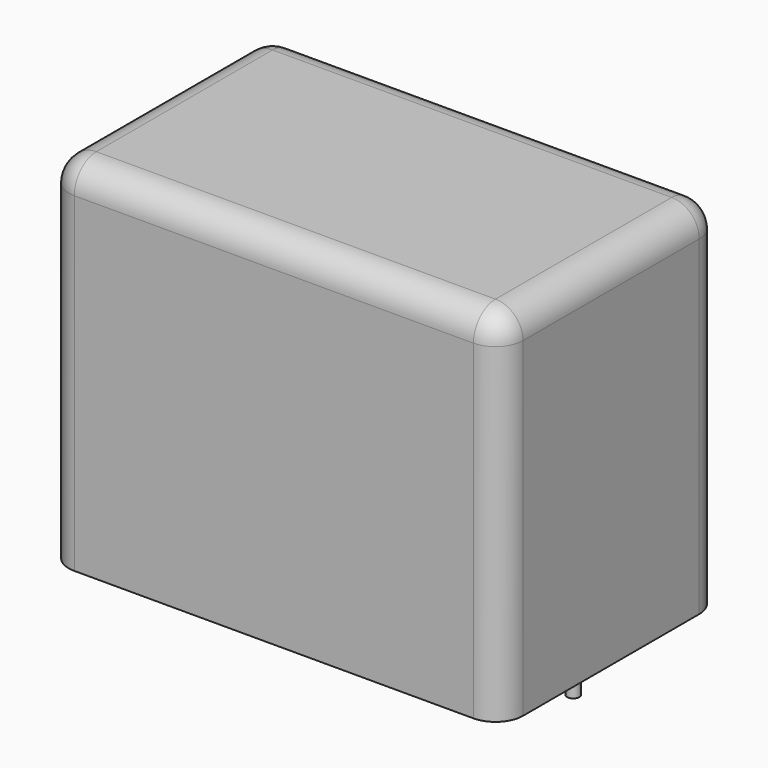
from build123d import *

# Parameters (mm, degrees)
SKETCH_W     = 33
SKETCH_H     = 20
PAD_DEPTH    = 26
FILLET_R     = 2
SKETCH001_R  = 0.45
PAD001_DEPTH = 3.2


with BuildPart() as fillet_body:
    # Sketch → Pad (new body)
    with BuildSketch(Plane.XY.offset(0.1)):
        with Locations((13.75, 0)):
            Rectangle(SKETCH_W, SKETCH_H)
    extrude(amount=PAD_DEPTH)

    # Fillet
    fillet_edges = [fillet_body.edges().sort_by_distance(p)[0] for p in [
        (-2.75, 0, 26.1),
        (-2.75, -10, 13.1),
        (13.75, -10, 26.1),
        (30.25, -10, 13.1),
        (30.25, 0, 26.1),
        (30.25, 10, 13.1),
        (13.75, 10, 26.1),
        (-2.75, 10, 13.1),
    ]]
    fillet(fillet_edges, radius=FILLET_R)


with BuildPart() as pad001:
    # Sketch001 → Pad001 (new body)
    with BuildSketch(Plane.XY.offset(0.5)):
        Circle(SKETCH001_R)
        with Locations((27.5, 0)):
            Circle(SKETCH001_R)
    extrude(amount=-PAD001_DEPTH)


solid = Compound([fillet_body.part, pad001.part])
